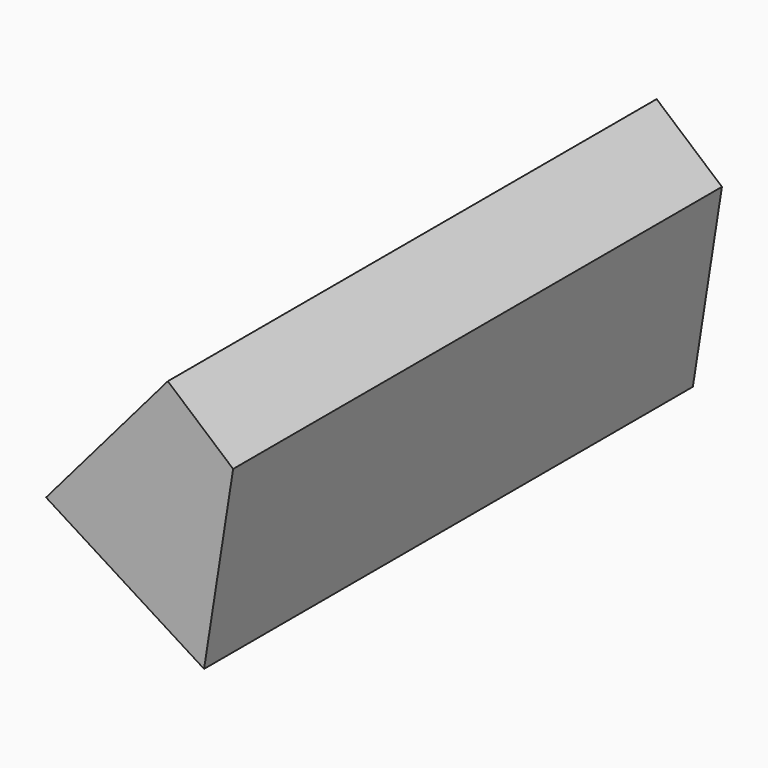
from build123d import *

# Parameters (mm, degrees)
F1_DEPTH      = 25.4
F1_DEPTH_BACK = 41.91
F3_DEPTH      = 25.4


with BuildPart() as f1:
    # F0 (on Front) → F1 (new body, two sides)
    with BuildSketch(Plane.XZ) as f1_sk:
        Polygon((18.475592, 21.52941), (0, 0), (23.972461, -15.116394), (28.380292, 13.029632), align=None)
    extrude(amount=F1_DEPTH)
    extrude(f1_sk.sketch, amount=-F1_DEPTH_BACK)

    # F1_face (on face) → F3 (join)
    with BuildSketch(Plane(origin=(16.840593, -25.4, 3.373244), x_dir=(1, 0, 0), z_dir=(0, -1, 0))):
        Polygon((7.131868, -18.489638), (11.539699, 9.656388), (1.634999, 18.156166), (-16.840593, -3.373244), align=None)
    extrude(amount=F3_DEPTH)


solid = f1.part
